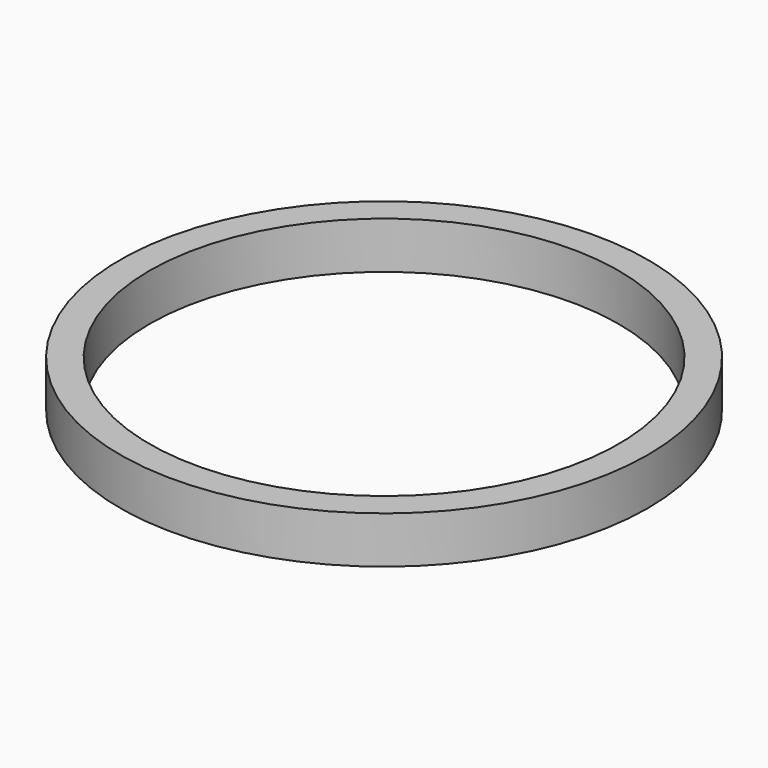
from build123d import *

# Parameters (mm, degrees)
F0_R     = 45
F1_DEPTH = 8
F2_D     = 80
F2_DEPTH = 60


with BuildPart() as f1:
    # F0 (on Top) → F1 (new body)
    with BuildSketch(Plane.XY):
        Circle(F0_R)
    extrude(amount=F1_DEPTH)

    # F2
    with Locations(Plane(origin=(0, 0, 0), x_dir=(1, 0, 0), z_dir=(0, 0, -1))):
        with Locations((0, 0)):
            Hole(F2_D / 2, depth=F2_DEPTH)


solid = f1.part
